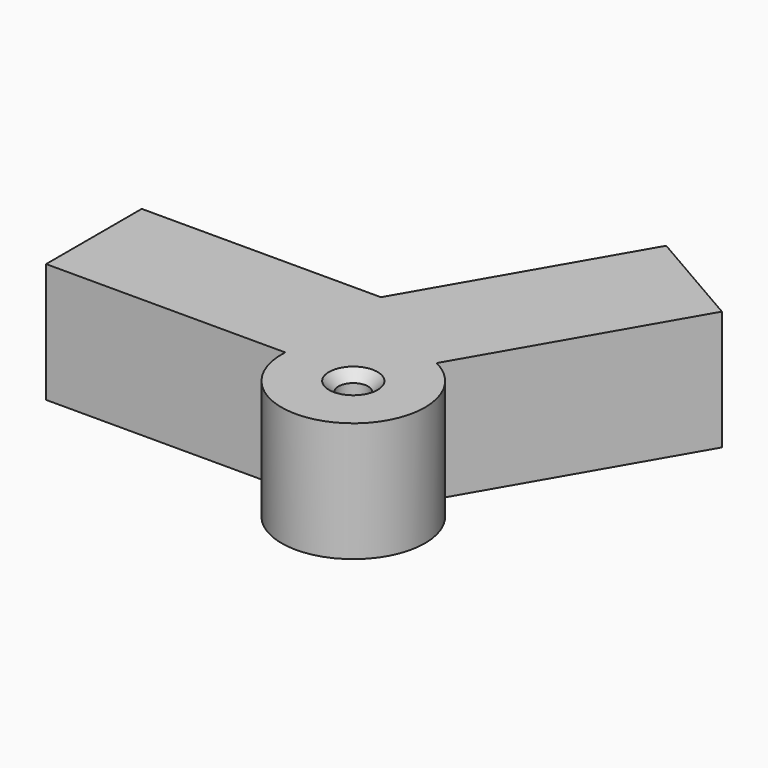
from build123d import *

# Parameters (mm, degrees)
PAD_DEPTH        = 15
HOLE_D           = 3.7
HOLE_CSINK_D     = 6.1
HOLE_CSINK_ANGLE = 90


with BuildPart() as part:
    # Sketch → Pad (new body)
    with BuildSketch(Plane.XY):
        with BuildLine():
            Line((0, 0), (-30, 0))
            Line((-30, 0), (-30, -15))
            Line((-30, -15), (0, -15))
            ThreePointArc((0, -15), (13.482659, -23.352651), (12.990381, -7.5))
            Line((27.990381, 18.480762), (12.990381, -7.5))
            Line((15, 25.980762), (27.990381, 18.480762))
            Line((0, 0), (15, 25.980762))
        make_face()
    extrude(amount=PAD_DEPTH)

    # Hole (through all)
    with Locations(Plane.XY.offset(15)):
        with Locations((8.982659, -15.558422)):
            CounterSinkHole(HOLE_D / 2, HOLE_CSINK_D / 2, counter_sink_angle=HOLE_CSINK_ANGLE)


solid = part.part
